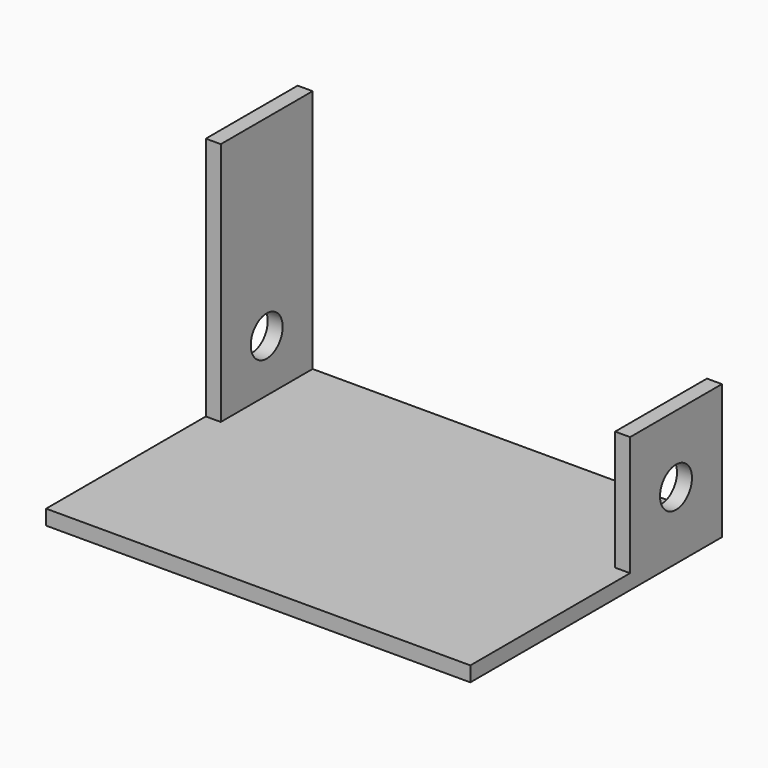
from build123d import *

# Parameters (mm, degrees)
F0_W     = 85
F0_H     = 23
F0_H_2   = 40
F1_DEPTH = 3
F2_W     = 3
F2_H     = 23
F3_DEPTH = 24
F4_W     = 3
F4_H     = 23
F5_DEPTH = 25
F6_R     = 4
F7_DEPTH = 200


with BuildPart() as f1:
    # F0 (on Top) → F1 (new body)
    with BuildSketch(Plane.XY):
        with Locations((42.5, 11.5)):
            Rectangle(F0_W, F0_H)
        with Locations((42.5, -20)):
            Rectangle(F0_W, F0_H_2)
    extrude(amount=F1_DEPTH)

    # F2 (on face) → F3 (join)
    with BuildSketch(Plane.XY.offset(3)):
        with Locations((1.5, 11.5)):
            Rectangle(F2_W, F2_H)
        with Locations((83.5, 11.5)):
            Rectangle(F2_W, F2_H)
    extrude(amount=F3_DEPTH)

    # F4 (on face) → F5 (join)
    with BuildSketch(Plane.XY.offset(27)):
        with Locations((1.5, 11.5)):
            Rectangle(F4_W, F4_H)
    extrude(amount=F5_DEPTH)

    # F6 (on face) → F7 (cut)
    with BuildSketch(Plane.YZ.offset(85)):
        with Locations((11.5, 13.5)):
            Circle(F6_R)
    extrude(amount=-F7_DEPTH, mode=Mode.SUBTRACT)


solid = f1.part
